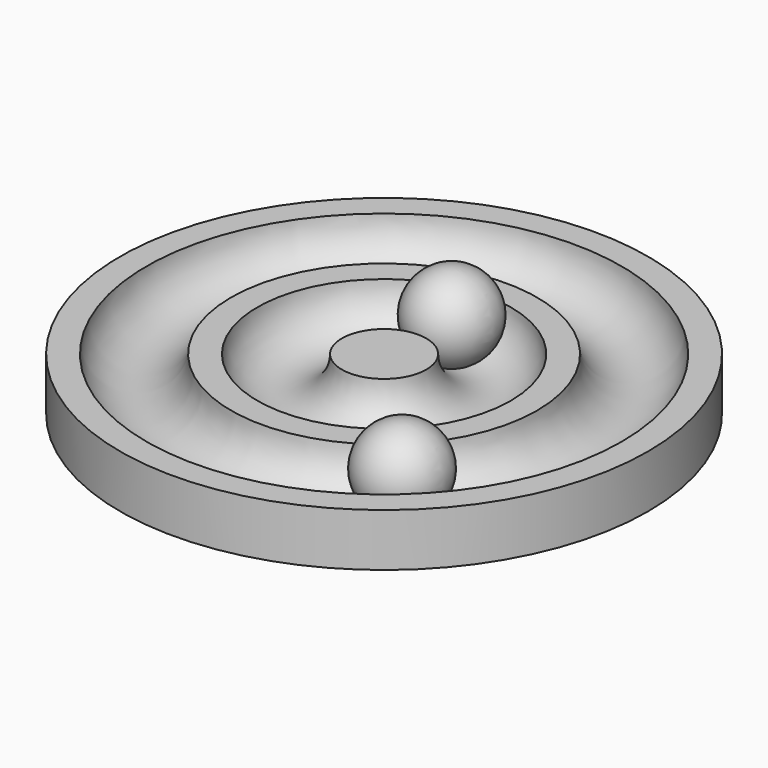
from build123d import *

# Parameters (mm, degrees)
TORUS001_R     = 8
TORUS_R        = 8
CYLINDER_R     = 50
CYLINDER_DEPTH = 10


with BuildPart() as torus001:
    # Torus001 → Torus001 (revolve)
    with BuildSketch(Plane(origin=(0, 0, 10), x_dir=(1, 0, 0), z_dir=(0, -1, 0))):
        with Locations((37, 0)):
            Circle(TORUS001_R)
    revolve(axis=Axis((0, 0, 10), (0, 0, 1)))


with BuildPart() as torus:
    # Torus → Torus (revolve)
    with BuildSketch(Plane(origin=(0, 0, 10), x_dir=(1, 0, 0), z_dir=(0, -1, 0))):
        with Locations((16, 0)):
            Circle(TORUS_R)
    revolve(axis=Axis((0, 0, 10), (0, 0, 1)))


with BuildPart() as cut001:
    # Cylinder → Cylinder (new body)
    with BuildSketch(Plane.XY):
        Circle(CYLINDER_R)
    extrude(amount=CYLINDER_DEPTH)

    # Cut: cut Torus
    add(torus.part, mode=Mode.SUBTRACT)

    # Cut001: cut Torus001
    add(torus001.part, mode=Mode.SUBTRACT)


with BuildPart() as esfera:
    # Sphere → Sphere (revolve)
    with BuildSketch(Plane(origin=(0, 16, 10), x_dir=(1, 0, 0), z_dir=(0, -1, 0))):
        with BuildLine():
            ThreePointArc((0, -8), (8, 0), (0, 8))
            Line((0, 8), (0, -8))
        make_face()
    revolve(axis=Axis((0, 16, 10), (0, 0, 1)))


with BuildPart() as esfera001:
    # Sphere001 → Sphere001 (revolve)
    with BuildSketch(Plane(origin=(25, -27, 10), x_dir=(1, 0, 0), z_dir=(0, -1, 0))):
        with BuildLine():
            ThreePointArc((0, -8), (8, 0), (0, 8))
            Line((0, 8), (0, -8))
        make_face()
    revolve(axis=Axis((25, -27, 10), (0, 0, 1)))


solid = Compound([cut001.part, esfera.part, esfera001.part])
